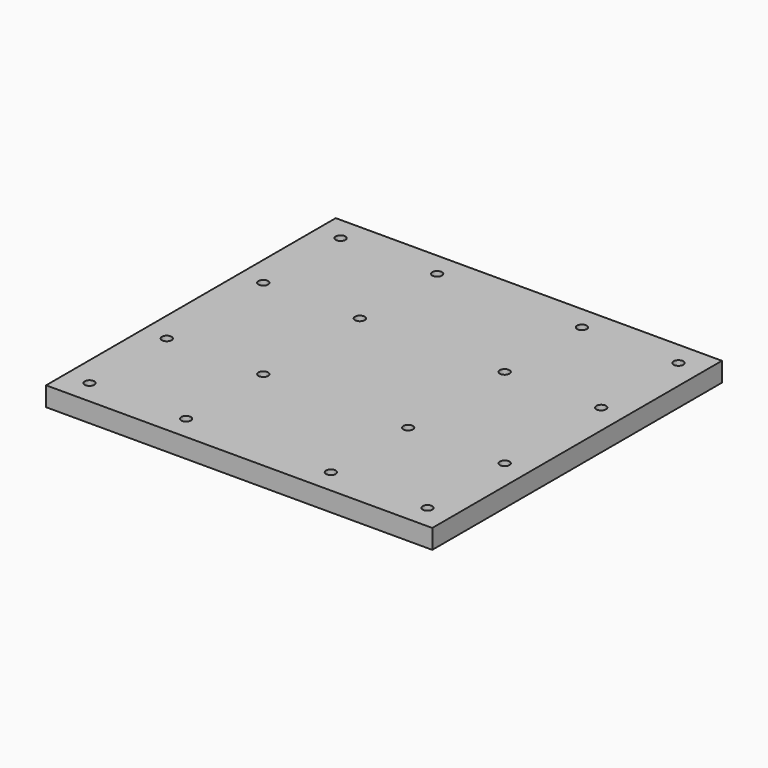
from build123d import *

# Parameters (mm, degrees)
F0_W     = 160
F0_H     = 150
F1_DEPTH = 8
F3_R     = 2
F4_DEPTH = 8.001


with BuildPart() as f1:
    # F0 (on Top) → F1 (new body)
    with BuildSketch(Plane.XY):
        with Locations((70.181546, 27.561349)):
            Rectangle(F0_W, F0_H)
    extrude(amount=F1_DEPTH)

    # F3 (on face) → F4 (cut, through all)
    with BuildSketch(Plane.XY.offset(8)):
        with Locations((0.181546, 92.561349)):
            Circle(F3_R)
        with Locations((40.181546, 92.561349)):
            Circle(F3_R)
        with Locations((100.181546, 92.561349)):
            Circle(F3_R)
        with Locations((140.181546, 92.561349)):
            Circle(F3_R)
        with Locations((140.181546, 52.561349)):
            Circle(F3_R)
        with Locations((100.181546, 52.561349)):
            Circle(F3_R)
        with Locations((40.181546, 52.561349)):
            Circle(F3_R)
        with Locations((0.181546, 52.561349)):
            Circle(F3_R)
        with Locations((0.181546, 2.561349)):
            Circle(F3_R)
        with Locations((40.181546, 2.561349)):
            Circle(F3_R)
        with Locations((100.181546, 2.561349)):
            Circle(F3_R)
        with Locations((140.181546, 2.561349)):
            Circle(F3_R)
        with Locations((140.181546, -37.438651)):
            Circle(F3_R)
        with Locations((100.181546, -37.438651)):
            Circle(F3_R)
        with Locations((40.181546, -37.438651)):
            Circle(F3_R)
        with Locations((0.181546, -37.438651)):
            Circle(F3_R)
    extrude(amount=-F4_DEPTH, mode=Mode.SUBTRACT)


solid = f1.part
